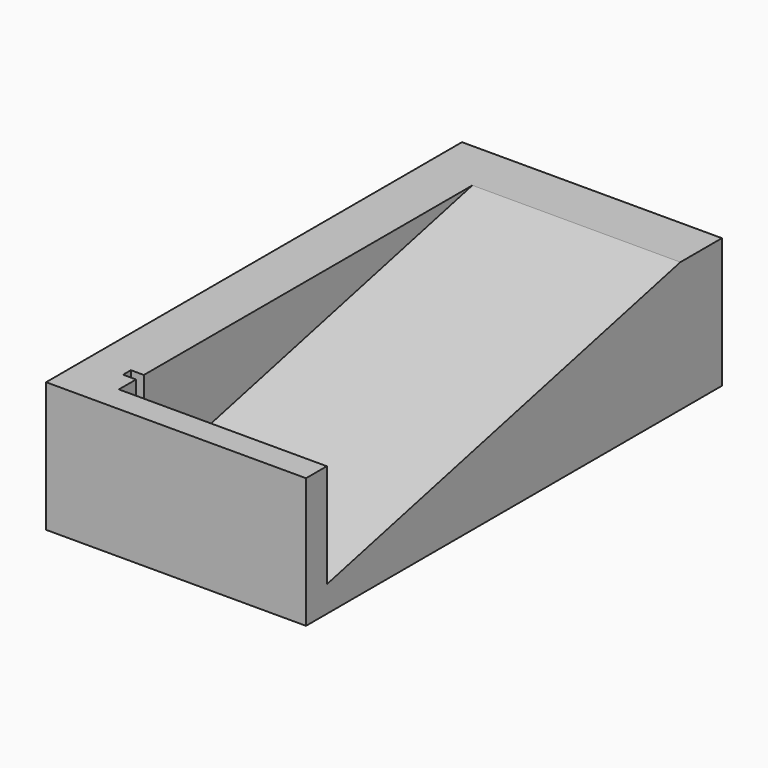
from build123d import *

# Parameters (mm, degrees)
F0_W     = 20
F0_H     = 40
F1_DEPTH = 10
F3_DEPTH = 16
F5_DEPTH = 1


with BuildPart() as f1:
    # F0 (on Top) → F1 (new body)
    with BuildSketch(Plane.XY):
        with Locations((-10, 20)):
            Rectangle(F0_W, F0_H)
    extrude(amount=F1_DEPTH)

    # F2 (on face) → F3 (cut)
    with BuildSketch(Plane.YZ):
        Polygon((2, 2), (36, 10), (2, 10), align=None)
    extrude(amount=-F3_DEPTH, mode=Mode.SUBTRACT)

    # F4 (on face) → F5 (cut)
    with BuildSketch(Plane.YZ.offset(-16)):
        with BuildLine():
            Line((4.403491, 10), (3.653491, 10))
            Line((3.653491, 10), (3.653491, 7.472175))
            Line((3.653491, 7.472175), (2.957461, 7.397732))
            ThreePointArc((2.957461, 7.397732), (2.640655, 6.824299), (3.287773, 6.722175))
            Line((3.287773, 6.722175), (4.403491, 6.722175))
            Line((4.403491, 6.722175), (4.403491, 10))
        make_face()
    extrude(amount=-F5_DEPTH, mode=Mode.SUBTRACT)


solid = f1.part
